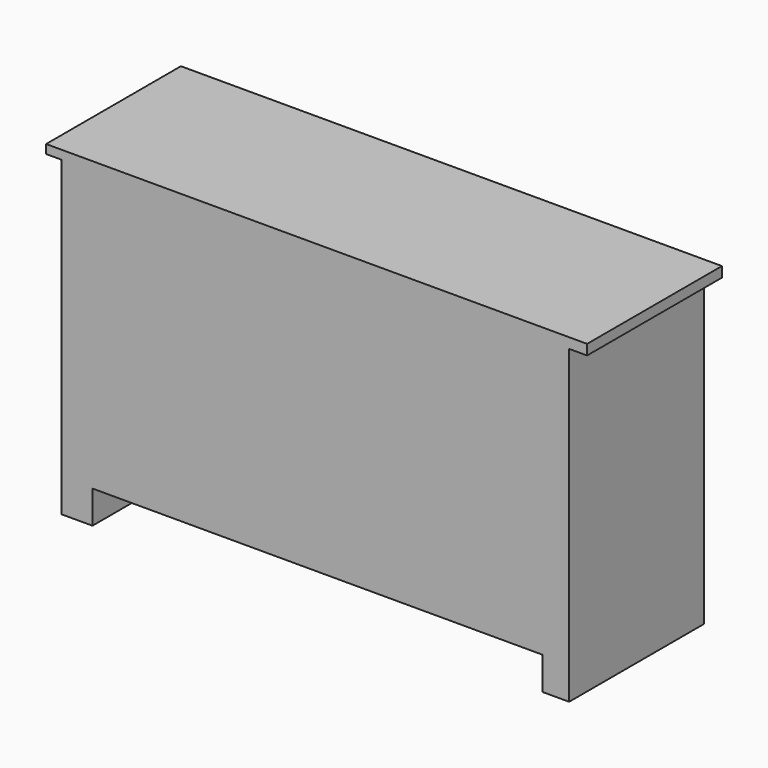
from build123d import *

# Parameters (mm, degrees)
F0_W     = 1600.2
F0_H     = 949.325
F1_DEPTH = 498.475
F2_W     = 45.155082
F2_H     = 923.191488
F2_W_2   = 53.135934
F2_H_2   = 919.007897
F2_W_3   = 1330.381736
F2_H_3   = 96.932329
F3_DEPTH = 508


with BuildPart() as f1:
    # F0 (on Front) → F1 (new body)
    with BuildSketch(Plane.XZ):
        with Locations((800.1, 474.6625)):
            Rectangle(F0_W, F0_H)
    extrude(amount=F1_DEPTH)

    # F2 (on face) → F3 (cut)
    with BuildSketch(Plane.XZ.offset(498.475)):
        with Locations((22.577541, 461.595744)):
            Rectangle(F2_W, F2_H)
        with Locations((1573.632033, 459.503948)):
            Rectangle(F2_W_2, F2_H_2)
        with Locations((802.38492, 48.466164)):
            Rectangle(F2_W_3, F2_H_3)
    extrude(amount=-F3_DEPTH, mode=Mode.SUBTRACT)


solid = f1.part
